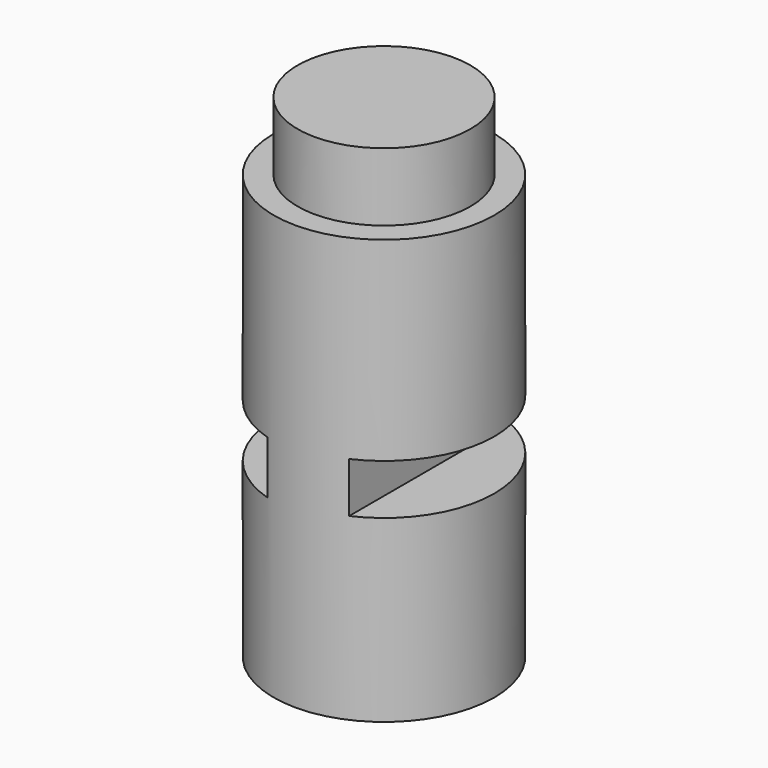
from build123d import *

# Parameters (mm, degrees)
F0_R     = 41.14767
F1_DEPTH = 158.304572
F2_W     = 30.046224
F2_H     = 18.724471
F3_DEPTH = 635
F4_W     = 39.408475
F4_H     = 19.81309
F5_DEPTH = 63.5
F6_R     = 32.223353
F7_DEPTH = 25.4


with BuildPart() as f1:
    # F0 (on Top) → F1 (new body)
    with BuildSketch(Plane.XY):
        Circle(F0_R)
    extrude(amount=F1_DEPTH)

    # F2 (on Front) → F3 (cut, symmetric)
    with BuildSketch(Plane.XZ):
        with Locations((32.005787, 76.323956)):
            Rectangle(F2_W, F2_H)
    extrude(amount=F3_DEPTH, both=True, mode=Mode.SUBTRACT)

    # F4 (on Front) → F5 (cut, symmetric)
    with BuildSketch(Plane.XZ):
        with Locations((-31.679184, 74.255556)):
            Rectangle(F4_W, F4_H)
    extrude(amount=F5_DEPTH, both=True, mode=Mode.SUBTRACT)

    # F6 (on face) → F7 (join)
    with BuildSketch(Plane.XY.offset(158.304572)):
        Circle(F6_R)
    extrude(amount=F7_DEPTH)


solid = f1.part
